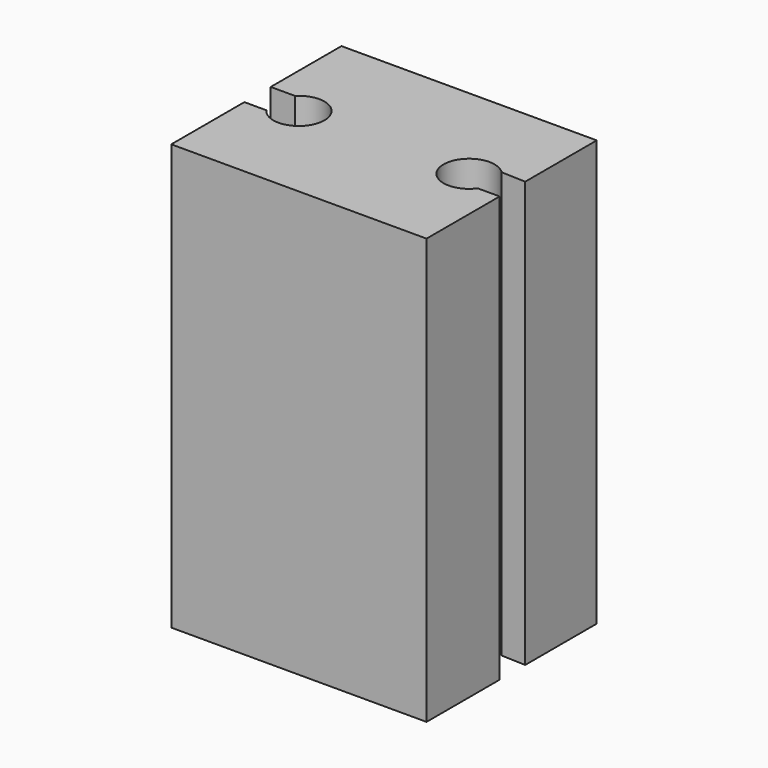
from build123d import *

# Parameters (mm, degrees)
F1_DEPTH = 12.7


with BuildPart() as f1:
    # F0 (on Top) → F1 (new body)
    with BuildSketch(Plane.XY):
        with BuildLine():
            Line((-3.81, -0.447633), (-3.81, -3.175))
            Line((-3.81, -3.175), (3.81, -3.175))
            Line((3.81, -3.175), (3.81, -0.447633))
            Line((3.81, -0.447633), (3.156659, -0.447633))
            ThreePointArc((3.156659, -0.447633), (1.780157, -0.057299), (3.082556, 0.535049))
            Line((3.082556, 0.535049), (3.81, 0.505605))
            Line((3.81, 0.505605), (3.81, 3.175))
            Line((3.81, 3.175), (-3.81, 3.175))
            Line((-3.81, 3.175), (-3.81, 0.535049))
            Line((-3.81, 0.535049), (-3.082556, 0.535049))
            ThreePointArc((-3.082556, 0.535049), (-2.250849, 0.705008), (-1.778, 0))
            ThreePointArc((-1.778, 0), (-2.304681, -0.724754), (-3.156659, -0.447633))
            Line((-3.156659, -0.447633), (-3.81, -0.447633))
        make_face()
    extrude(amount=F1_DEPTH)


solid = f1.part
